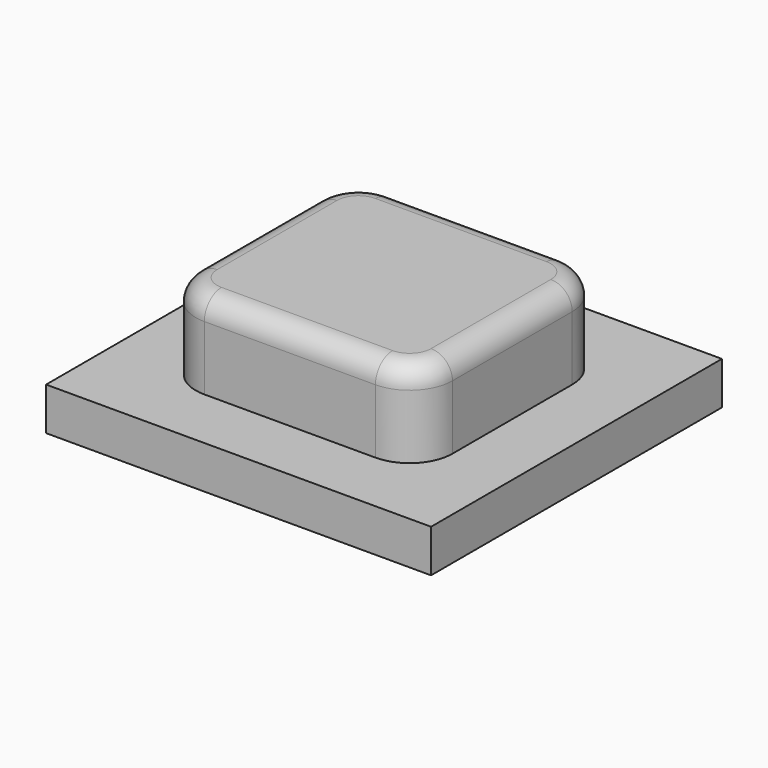
from build123d import *

# Parameters (mm, degrees)
F0_W     = 14.2875
F0_H     = 13.49375
F1_DEPTH = 1.5875
F3_DEPTH = 3.175
F4_R     = 0.79375


with BuildPart() as f1:
    # F0 (on Top) → F1 (new body)
    with BuildSketch(Plane.XY):
        Rectangle(F0_W, F0_H)
        with BuildLine():
            ThreePointArc((4.7625, -2.778125), (4.297532, -3.900657), (3.175, -4.365625))
            Line((3.175, -4.365625), (-3.175, -4.365625))
            ThreePointArc((-3.175, -4.365625), (-4.297532, -3.900657), (-4.7625, -2.778125))
            Line((-4.7625, -2.778125), (-4.7625, 2.778125))
            ThreePointArc((-4.7625, 2.778125), (-4.297532, 3.900657), (-3.175, 4.365625))
            Line((-3.175, 4.365625), (3.175, 4.365625))
            ThreePointArc((3.175, 4.365625), (4.297532, 3.900657), (4.7625, 2.778125))
            Line((4.7625, 2.778125), (4.7625, -2.778125))
        make_face(mode=Mode.SUBTRACT)
        with BuildLine():
            Line((-3.175, -4.365625), (3.175, -4.365625))
            ThreePointArc((3.175, -4.365625), (4.297532, -3.900657), (4.7625, -2.778125))
            Line((4.7625, -2.778125), (4.7625, 2.778125))
            ThreePointArc((4.7625, 2.778125), (4.297532, 3.900657), (3.175, 4.365625))
            Line((3.175, 4.365625), (-3.175, 4.365625))
            ThreePointArc((-3.175, 4.365625), (-4.297532, 3.900657), (-4.7625, 2.778125))
            Line((-4.7625, 2.778125), (-4.7625, -2.778125))
            ThreePointArc((-4.7625, -2.778125), (-4.297532, -3.900657), (-3.175, -4.365625))
        make_face()
    extrude(amount=F1_DEPTH)

    # F2 (on face) → F3 (join)
    with BuildSketch(Plane.XY.offset(1.5875)):
        with BuildLine():
            ThreePointArc((4.7625, 2.778125), (4.297532, 3.900657), (3.175, 4.365625))
            Line((3.175, 4.365625), (-3.175, 4.365625))
            ThreePointArc((-3.175, 4.365625), (-4.297532, 3.900657), (-4.7625, 2.778125))
            Line((-4.7625, 2.778125), (-4.7625, -2.778125))
            ThreePointArc((-4.7625, -2.778125), (-4.297532, -3.900657), (-3.175, -4.365625))
            Line((-3.175, -4.365625), (3.175, -4.365625))
            ThreePointArc((3.175, -4.365625), (4.297532, -3.900657), (4.7625, -2.778125))
            Line((4.7625, -2.778125), (4.7625, 2.778125))
        make_face()
    extrude(amount=F3_DEPTH)

    # F4
    f4_edges = [f1.edges().sort_by_distance(p)[0] for p in [
        (4.7625, 0, 4.7625),
    ]]
    fillet(f4_edges, radius=F4_R)


solid = f1.part
